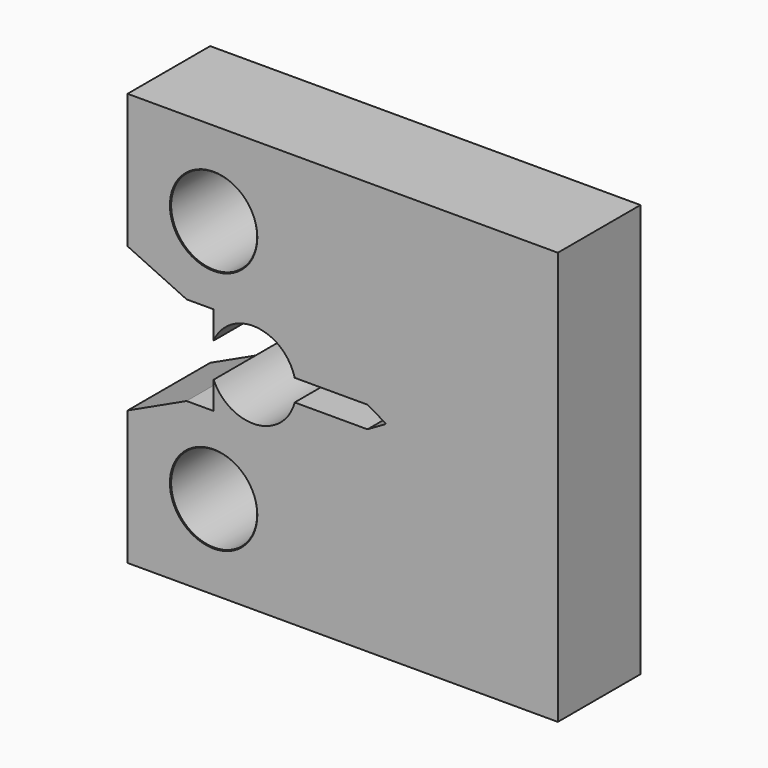
from build123d import *

# Parameters (mm, degrees)
F0_R     = 6.25
F1_DEPTH = 7.5
F3_SIZE  = 0.1


with BuildPart() as f1:
    # F0 (on Front) → F1 (new body, symmetric)
    with BuildSketch(Plane.XZ):
        with BuildLine():
            ThreePointArc((-0.04, 0.0692820323), (-0.0107179677, 0.04), (0, 0))
            Line((0, 0), (14.3022312224, 0))
            Line((14.3022312224, 0), (25, 0))
            Line((25, 0), (25, 30))
            Line((25, 30), (-37.5, 30))
            Line((-37.5, 30), (-37.5, 10.5))
            Line((-37.5, 10.5), (-28.921972318, 6.5))
            Line((-28.921972318, 6.5), (-25, 6.5))
            Line((-25, 6.5), (-25, 2.5))
            ThreePointArc((-25, 2.5), (-18.7823742649, 6.2308090689), (-13.2234851669, 1.575))
            Line((-13.2234851669, 1.575), (-2.6479800219, 1.575))
            Line((-2.6479800219, 1.575), (-0.04, 0.0692820323))
        make_face()
        with Locations((-25, 17.75)):
            Circle(F0_R, mode=Mode.SUBTRACT)
    extrude(amount=F1_DEPTH, both=True)

    # F2: F1 across face


with BuildPart() as f1_1:
    add(f1.part)
    add(f1.part.mirror(Plane(origin=(12.5, 0, 0), x_dir=(1, 0, 0), z_dir=(0, 0, -1))))

    # F3
    f3_edges = [f1_1.edges().sort_by_distance(p)[0] for p in [
        (-31.25, -7.5, 17.75),
        (-31.25, -7.5, -17.75),
        (-31.25, 7.5, 17.75),
        (-31.25, 7.5, -17.75),
    ]]
    chamfer(f3_edges, length=F3_SIZE)


solid = f1_1.part
